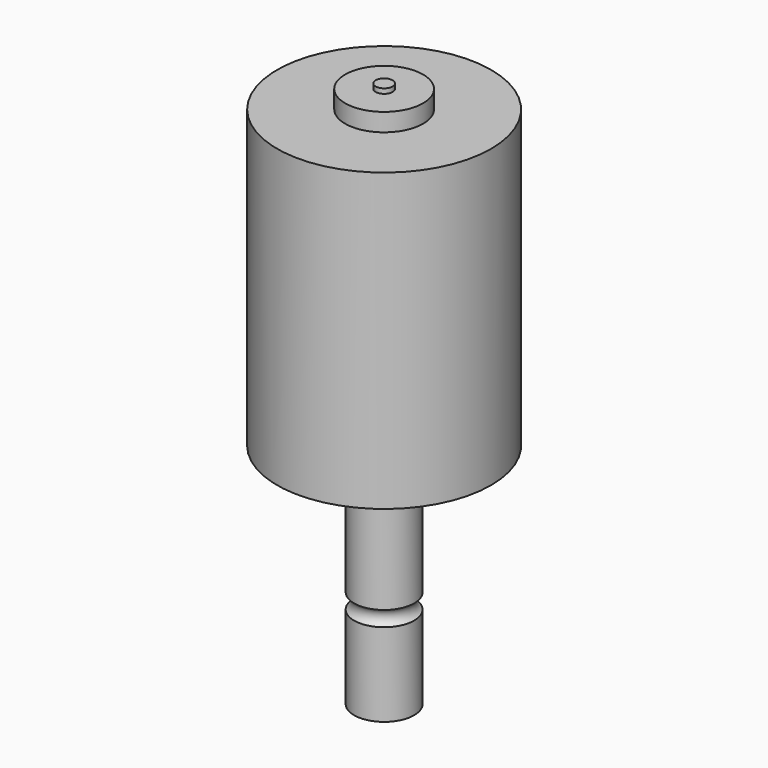
from build123d import *


with BuildPart() as f1:
    # F0 (on Front) → F1 (revolve)
    with BuildSketch(Plane.XZ):
        Polygon((0, 40.76), (0, 0), (0, -15.62), (1.08, -15.62), (1.08, -2.8), (1.08, 40.14), (1.08, 40.76), align=None)
    revolve(axis=Axis((0, 0, 20.38), (0, 0, 1)))


with BuildPart() as f2:
    # F0 (on Front) → F2 (revolve)
    with BuildSketch(Plane.XZ):
        Polygon((4.98, 40.14), (1.08, 40.14), (1.08, -2.8), (4.86, -2.8), (4.86, 0), (13.67, 0), (13.67, 37.84), (4.98, 37.84), align=None)
    revolve(axis=Axis((0, 0, 20.38), (0, 0, 1)))


with BuildPart() as f3:
    # F0 (on Front) → F3 (revolve)
    with BuildSketch(Plane.XZ):
        with BuildLine():
            Line((3.84, -4.3), (1.5, -4.3))
            Line((1.5, -4.3), (1.5, -15.62))
            Line((1.5, -15.62), (2.675, -15.62))
            Line((2.675, -15.62), (2.675, -29.07))
            Line((2.675, -29.07), (3.84, -29.07))
            Line((3.84, -29.07), (3.84, -18.42))
            ThreePointArc((3.84, -18.42), (3.28, -17.45), (3.84, -16.48))
            Line((3.84, -16.48), (3.84, -4.3))
        make_face()
    revolve(axis=Axis((0, 0, -7.81), (0, 0, -1)))


solid = Compound([f1.part, f2.part, f3.part])
